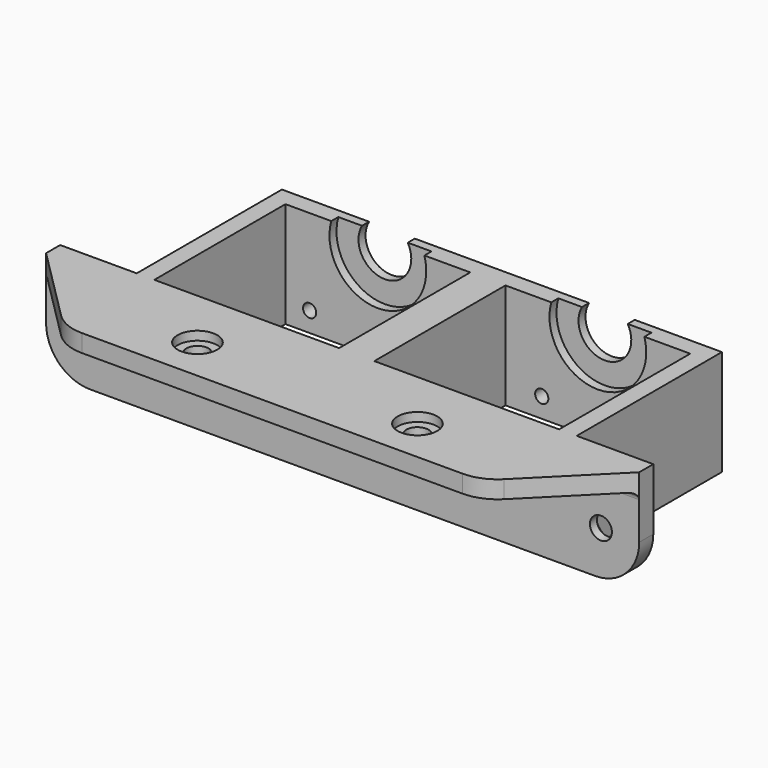
from build123d import *

# Parameters (mm, degrees)
SKETCH_W            = 42
SKETCH_H            = 37.25
PAD_DEPTH           = 24
SKETCH001_R         = 11
POCKET_DEPTH        = 2
SKETCH003_W         = 134.803292
SKETCH003_H         = 4
PAD002_DEPTH        = 20
HOLE_D              = 5
HOLE_DEPTH          = 23.497848
HOLE_CBORE_D        = 9
HOLE_CBORE_DEPTH    = 2
HOLE_TIPS_R         = 2.5
HOLE001_D           = 5
HOLE001_DEPTH       = 23.497848
HOLE001_CBORE_D     = 9
HOLE001_CBORE_DEPTH = 2
HOLE001_TIPS_R      = 2.5
CHAMFER_SIZE        = 20
SKETCH007_R         = 1.5
SKETCH007_R_2       = 6
POCKET001_DEPTH     = 5
FILLET_R            = 1.5
FILLET001_R         = 10
FILLET002_R         = 10


with BuildPart() as part:
    # Sketch → Pad (new body)
    with BuildSketch(Plane.XY):
        Polygon((-67.401646, 0), (67.401646, 0), (67.401646, 4), (50, 4), (50, 45.25), (-50, 45.25), (-50, 4), (-67.401646, 4), align=None)
        with Locations((25, 22.625)):
            Rectangle(SKETCH_W, SKETCH_H, mode=Mode.SUBTRACT)
        with Locations((-25, 22.625)):
            Rectangle(SKETCH_W, SKETCH_H, mode=Mode.SUBTRACT)
    extrude(amount=PAD_DEPTH)

    # Sketch001 (on Face13 of Pad) → Pocket (cut)
    with BuildSketch(Plane.XZ.offset(-41.25)):
        with Locations((-25, 21)):
            Circle(SKETCH001_R)
        with Locations((25, 21)):
            Circle(SKETCH001_R)
    extrude(amount=-POCKET_DEPTH, mode=Mode.SUBTRACT)

    # Sketch003 → Pad002 (join)
    with BuildSketch(Plane.XZ):
        with Locations((0, 22)):
            Rectangle(SKETCH003_W, SKETCH003_H)
    extrude(amount=PAD002_DEPTH)

    # Hole
    with Locations(Plane(origin=(0, 4, 0), x_dir=(-1, 0, 0), z_dir=(0, 1, 0))):
        with Locations((58.700823, 10), (-58.700823, 10)):
            CounterBoreHole(HOLE_D / 2, HOLE_CBORE_D / 2, HOLE_CBORE_DEPTH, depth=HOLE_DEPTH)

    # Hole tips → Hole tip 1 section 0
    with BuildSketch(Plane(origin=(0, -19.497848, 0), x_dir=(-1, 0, 0), z_dir=(0, 1, 0)), mode=Mode.PRIVATE) as hole_tip_1_s0:
        with Locations((58.700823, 10)):
            Circle(HOLE_TIPS_R)
    loft([hole_tip_1_s0.sketch, Vertex(-58.700823, -21, 10)], mode=Mode.SUBTRACT)

    # Hole tips → Hole tip 2 section 0
    with BuildSketch(Plane(origin=(0, -19.497848, 0), x_dir=(-1, 0, 0), z_dir=(0, 1, 0)), mode=Mode.PRIVATE) as hole_tip_2_s0:
        with Locations((-58.700823, 10)):
            Circle(HOLE_TIPS_R)
    loft([hole_tip_2_s0.sketch, Vertex(58.700823, -21, 10)], mode=Mode.SUBTRACT)

    # Hole001
    with Locations(Plane.XY.offset(24)):
        with Locations((-25, -10), (25, -10)):
            CounterBoreHole(HOLE001_D / 2, HOLE001_CBORE_D / 2, HOLE001_CBORE_DEPTH, depth=HOLE001_DEPTH)

    # Hole001 tips → Hole001 tip 1 section 0
    with BuildSketch(Plane.XY.offset(0.502152), mode=Mode.PRIVATE) as hole001_tip_1_s0:
        with Locations((-25, -10)):
            Circle(HOLE001_TIPS_R)
    loft([hole001_tip_1_s0.sketch, Vertex(-25, -10, -1)], mode=Mode.SUBTRACT)

    # Hole001 tips → Hole001 tip 2 section 0
    with BuildSketch(Plane.XY.offset(0.502152), mode=Mode.PRIVATE) as hole001_tip_2_s0:
        with Locations((25, -10)):
            Circle(HOLE001_TIPS_R)
    loft([hole001_tip_2_s0.sketch, Vertex(25, -10, -1)], mode=Mode.SUBTRACT)

    # Chamfer
    chamfer_edges = [part.edges().sort_by_distance(p)[0] for p in [
        (-67.401646, -20, 22),
        (67.401646, -20, 22),
    ]]
    chamfer(chamfer_edges, length=CHAMFER_SIZE)

    # Sketch007 (on Face12 of Chamfer) → Pocket001 (cut)
    with BuildSketch(Plane(origin=(0, 45.25, 0), x_dir=(-1, 0, 0), z_dir=(0, 1, 0))):
        with Locations((-43.253433, 4.5)):
            Circle(SKETCH007_R)
        with Locations((-12.253433, 4.5)):
            Circle(SKETCH007_R)
        with Locations((9.5, 4.5)):
            Circle(SKETCH007_R)
        with Locations((40.5, 4.5)):
            Circle(SKETCH007_R)
        with Locations((-25, 21)):
            Circle(SKETCH007_R_2)
        with Locations((25, 21)):
            Circle(SKETCH007_R_2)
    extrude(amount=-POCKET001_DEPTH, mode=Mode.SUBTRACT)

    # Fillet
    fillet_edges = [part.edges().sort_by_distance(p)[0] for p in [
        (0, 0, 20),
    ]]
    fillet(fillet_edges, radius=FILLET_R)

    # Fillet001
    fillet001_edges = [part.edges().sort_by_distance(p)[0] for p in [
        (-67.401646, 2, 0),
        (67.401646, 2, 0),
    ]]
    fillet(fillet001_edges, radius=FILLET001_R)

    # Fillet002
    fillet002_edges = [part.edges().sort_by_distance(p)[0] for p in [
        (-47.401646, -20, 22),
        (47.401646, -20, 22),
    ]]
    fillet(fillet002_edges, radius=FILLET002_R)


solid = part.part
